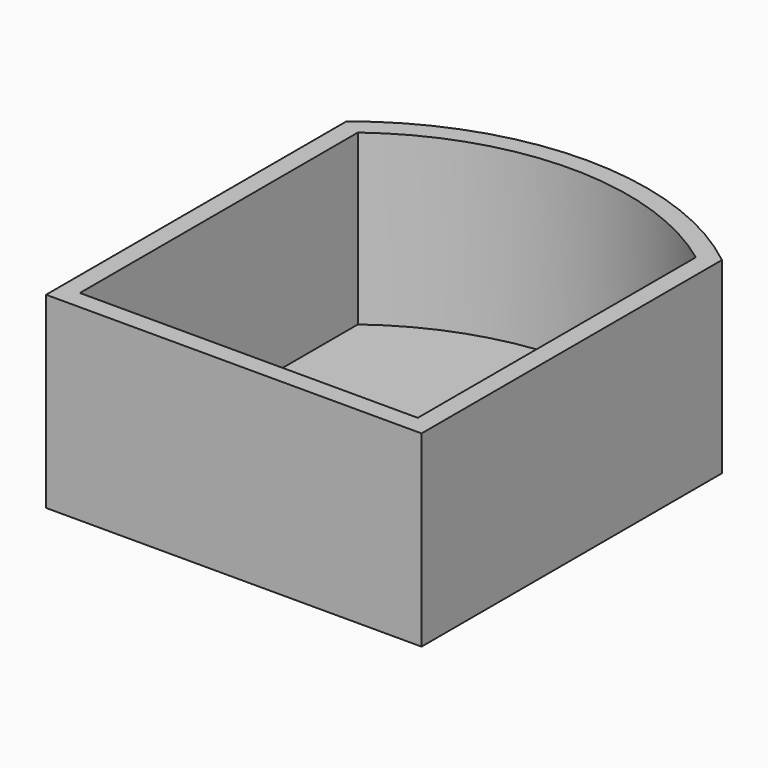
from build123d import *

# Parameters (mm, degrees)
F0_W     = 50
F0_H     = 50
F1_DEPTH = 25
F2_T     = -2.5


with BuildPart() as f1:
    # F0 (on Top) → F1 (new body)
    with BuildSketch(Plane.XY):
        with BuildLine():
            ThreePointArc((25, 25), (0, 33.77501), (-25, 25))
            Line((-25, 25), (25, 25))
        make_face()
        Rectangle(F0_W, F0_H)
    extrude(amount=F1_DEPTH)

    # F2
    f2_openings = [f1.faces().sort_by_distance(p)[0] for p in [
        (0, 3.054648, 25),
    ]]
    offset(amount=F2_T, openings=f2_openings)


solid = f1.part
